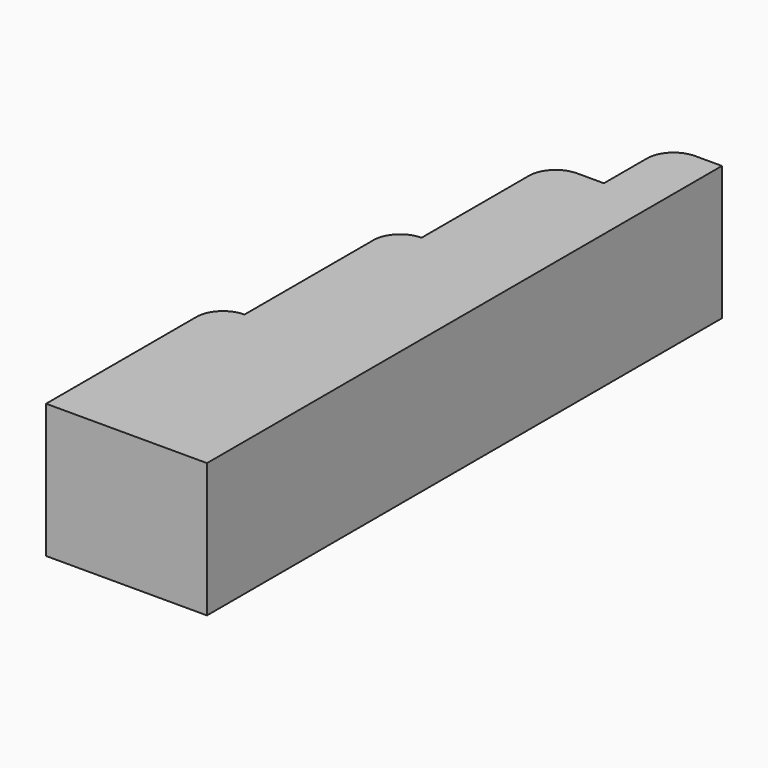
from build123d import *

# Parameters (mm, degrees)
F1_DEPTH = 25


with BuildPart() as f1:
    # F0 (on Top) → F1 (new body)
    with BuildSketch(Plane.XY):
        with BuildLine():
            Line((10, -67.880436), (10, 52.119564))
            Line((10, 52.119564), (5, 52.119564))
            ThreePointArc((5, 52.119564), (1.464466, 50.655098), (0, 47.119564))
            Line((0, 47.119564), (0, 37.119564))
            Line((0, 37.119564), (-5, 37.119564))
            ThreePointArc((-5, 37.119564), (-8.535534, 35.655098), (-10, 32.119564))
            Line((-10, 32.119564), (-10, 7.119564))
            ThreePointArc((-10, 7.119564), (-13.535534, 5.655098), (-15, 2.119564))
            Line((-15, 2.119564), (-15, -27.880436))
            ThreePointArc((-15, -27.880436), (-18.535534, -29.344902), (-20, -32.880436))
            Line((-20, -32.880436), (-20, -67.880436))
            Line((-20, -67.880436), (10, -67.880436))
        make_face()
    extrude(amount=F1_DEPTH)


solid = f1.part
